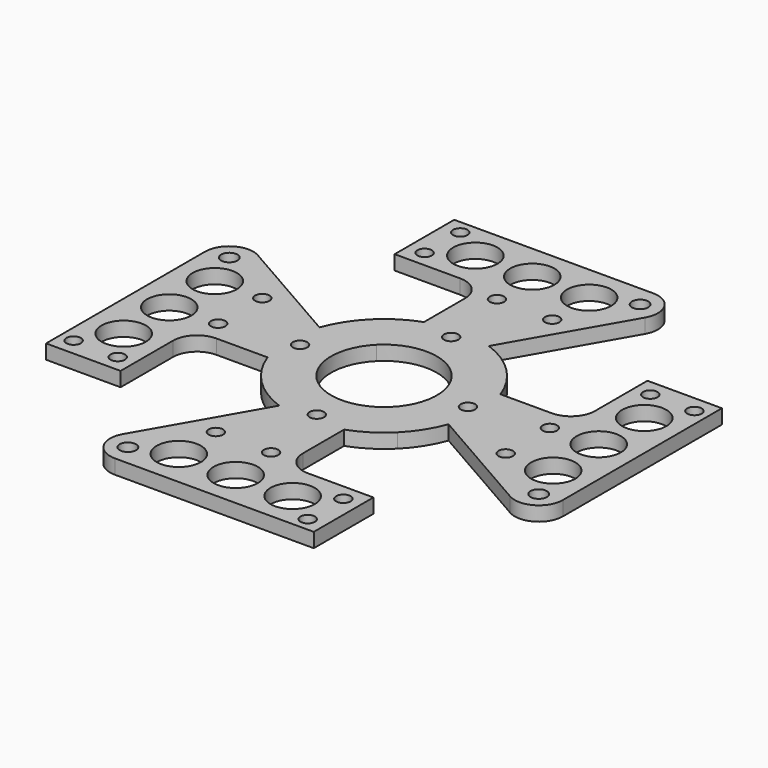
from build123d import *

# Parameters (mm, degrees)
F1_DEPTH = 3
F2_R     = 4.6
F3_DEPTH = 25
F4_R     = 1.6946230943
F4_R_2   = 1.5
F5_DEPTH = 30


with BuildPart() as f1:
    # F0 (on Top) → F1 (new body)
    with BuildSketch(Plane.XY):
        with BuildLine():
            Line((-6.75, 29.5), (-6.75, 18.8265105636))
            ThreePointArc((-6.75, 18.8265105636), (-10.705427356, 16.893603083), (-14.1421356237, 14.1421356237))
            ThreePointArc((-14.1421356237, 14.1421356237), (-16.893603083, 10.705427356), (-18.8265105636, 6.75))
            Line((-18.8265105636, 6.75), (-42.5142997889, 20.3221463664))
            ThreePointArc((-42.5142997889, 20.3221463664), (-47.5071396994, 20.3097918389), (-50, 15.983794783))
            Line((-50, 15.983794783), (-50, -25.3888497949))
            Line((-50, -25.3888497949), (-34.5, -25.3888497949))
            Line((-34.5, -25.3888497949), (-34.5, -11.75))
            ThreePointArc((-34.5, -11.75), (-33.0355339059, -8.2144660941), (-29.5, -6.75))
            Line((-29.5, -6.75), (-18.8265105636, -6.75))
            ThreePointArc((-18.8265105636, -6.75), (-16.893603083, -10.705427356), (-14.1421356237, -14.1421356237))
            ThreePointArc((-14.1421356237, -14.1421356237), (-10.705427356, -16.893603083), (-6.75, -18.8265105636))
            Line((-6.75, -18.8265105636), (-20.3221463664, -42.5142997889))
            ThreePointArc((-20.3221463664, -42.5142997889), (-20.3097918389, -47.5071396994), (-15.983794783, -50))
            Line((-15.983794783, -50), (25.3888497949, -50))
            Line((25.3888497949, -50), (25.3888497949, -34.5))
            Line((25.3888497949, -34.5), (11.75, -34.5))
            ThreePointArc((11.75, -34.5), (8.2144660941, -33.0355339059), (6.75, -29.5))
            Line((6.75, -29.5), (6.75, -18.8265105636))
            ThreePointArc((6.75, -18.8265105636), (10.705427356, -16.893603083), (14.1421356237, -14.1421356237))
            ThreePointArc((14.1421356237, -14.1421356237), (16.893603083, -10.705427356), (18.8265105636, -6.75))
            Line((18.8265105636, -6.75), (42.5142997889, -20.3221463664))
            ThreePointArc((42.5142997889, -20.3221463664), (47.5071396994, -20.3097918389), (50, -15.983794783))
            Line((50, -15.983794783), (50, 25.3888497949))
            Line((50, 25.3888497949), (34.5, 25.3888497949))
            Line((34.5, 25.3888497949), (34.5, 11.75))
            ThreePointArc((34.5, 11.75), (33.0355339059, 8.2144660941), (29.5, 6.75))
            Line((29.5, 6.75), (18.8265105636, 6.75))
            ThreePointArc((18.8265105636, 6.75), (16.893603083, 10.705427356), (14.1421356237, 14.1421356237))
            ThreePointArc((14.1421356237, 14.1421356237), (10.705427356, 16.893603083), (6.75, 18.8265105636))
            Line((6.75, 18.8265105636), (20.3221463664, 42.5142997889))
            ThreePointArc((20.3221463664, 42.5142997889), (20.3097918389, 47.5071396994), (15.983794783, 50))
            Line((15.983794783, 50), (-25.3888497949, 50))
            Line((-25.3888497949, 50), (-25.3888497949, 34.5))
            Line((-25.3888497949, 34.5), (-11.75, 34.5))
            ThreePointArc((-11.75, 34.5), (-8.2144660941, 33.0355339059), (-6.75, 29.5))
        make_face()
        with BuildLine():
            ThreePointArc((-7.7781745931, 7.7781745931), (0, 11), (7.7781745931, 7.7781745931))
            ThreePointArc((7.7781745931, 7.7781745931), (11, 0), (7.7781745931, -7.7781745931))
            ThreePointArc((7.7781745931, -7.7781745931), (0, -11), (-7.7781745931, -7.7781745931))
            ThreePointArc((-7.7781745931, -7.7781745931), (-11, 0), (-7.7781745931, 7.7781745931))
        make_face(mode=Mode.SUBTRACT)
    extrude(amount=F1_DEPTH)

    # F2 (on Top) → F3 (cut)
    with BuildSketch(Plane.XY):
        with Locations((-14.8245864651, 42.2937068045)):
            Circle(F2_R)
        with Locations((-2.9845864651, 42.2937068045)):
            Circle(F2_R)
        with Locations((8.8554135349, 42.2937068045)):
            Circle(F2_R)
        with Locations((-42.2937068045, -2.9845864651)):
            Circle(F2_R)
        with Locations((-42.2937068045, 8.8554135349)):
            Circle(F2_R)
        with Locations((-42.2937068045, -14.8245864651)):
            Circle(F2_R)
        with Locations((2.9845864651, -42.2937068045)):
            Circle(F2_R)
        with Locations((-8.8554135349, -42.2937068045)):
            Circle(F2_R)
        with Locations((14.8245864651, -42.2937068045)):
            Circle(F2_R)
        with Locations((42.2937068045, 2.9845864651)):
            Circle(F2_R)
        with Locations((42.2937068045, -8.8554135349)):
            Circle(F2_R)
        with Locations((42.2937068045, 14.8245864651)):
            Circle(F2_R)
    extrude(amount=F3_DEPTH, mode=Mode.SUBTRACT)

    # F4 (on Top) → F5 (cut)
    with BuildSketch(Plane.XY):
        with Locations((16.7920645326, 45.6192344427)):
            Circle(F4_R)
        with Locations((-21.8333657831, 47.1258349717)):
            Circle(F4_R_2)
        with Locations((-21.8763593584, 37.9076637328)):
            Circle(F4_R_2)
        with Locations((8.9827191732, 32.5078293681)):
            Circle(F4_R_2)
        with Locations((0, 17.4654945731)):
            Circle(F4_R_2)
        with Locations((-2.5026722487, 32.5078293681)):
            Circle(F4_R_2)
        with Locations((-32.5078293681, -2.5026722487)):
            Circle(F4_R_2)
        with Locations((-37.9076637328, -21.8763593584)):
            Circle(F4_R_2)
        with Locations((-45.6192344427, 16.7920645326)):
            Circle(F4_R)
        with Locations((-32.5078293681, 8.9827191732)):
            Circle(F4_R_2)
        with Locations((-47.1258349717, -21.8333657831)):
            Circle(F4_R_2)
        with Locations((-17.4654945731, 0)):
            Circle(F4_R_2)
        with Locations((2.5026722487, -32.5078293681)):
            Circle(F4_R_2)
        with Locations((21.8763593584, -37.9076637328)):
            Circle(F4_R_2)
        with Locations((-16.7920645326, -45.6192344427)):
            Circle(F4_R)
        with Locations((-8.9827191732, -32.5078293681)):
            Circle(F4_R_2)
        with Locations((21.8333657831, -47.1258349717)):
            Circle(F4_R_2)
        with Locations((0, -17.4654945731)):
            Circle(F4_R_2)
        with Locations((32.5078293681, 2.5026722487)):
            Circle(F4_R_2)
        with Locations((37.9076637328, 21.8763593584)):
            Circle(F4_R_2)
        with Locations((45.6192344427, -16.7920645326)):
            Circle(F4_R)
        with Locations((32.5078293681, -8.9827191732)):
            Circle(F4_R_2)
        with Locations((47.1258349717, 21.8333657831)):
            Circle(F4_R_2)
        with Locations((17.4654945731, 0)):
            Circle(F4_R_2)
    extrude(amount=F5_DEPTH, mode=Mode.SUBTRACT)


solid = f1.part
